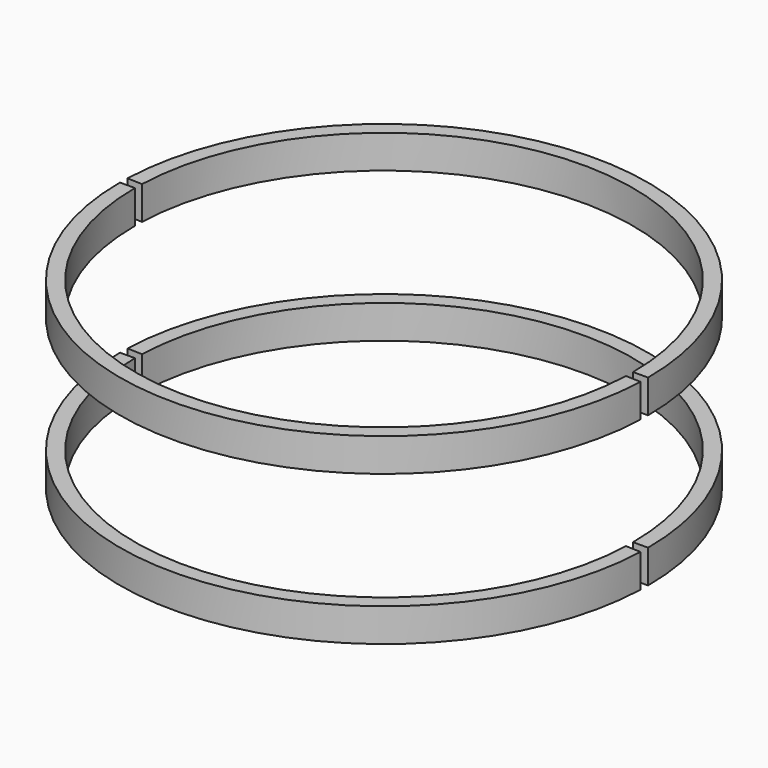
from build123d import *

# Parameters (mm, degrees)
CYLINDER081_R          = 22.45
CYLINDER081_DEPTH      = 17
CYLINDER080_W          = 23.8
CYLINDER080_H          = 3
CYLINDER080_ANGLE      = 178
CUT037_PLACEMENT_ANGLE = 180
CYLINDER079_R          = 22.45
CYLINDER079_DEPTH      = 17
CYLINDER078_W          = 23.8
CYLINDER078_H          = 3
CYLINDER078_ANGLE      = 178
CUT036_PLACEMENT_ANGLE = 180


with BuildPart() as cylinder081:
    # Cylinder081 → Cylinder081 (new body)
    with BuildSketch(Plane.XY):
        Circle(CYLINDER081_R)
    extrude(amount=CYLINDER081_DEPTH)


with BuildPart() as cylinder080:
    # Cylinder080 → Cylinder080 (revolve)
    with BuildSketch(Plane(origin=(0, 0, 1.8), x_dir=(1, 0, 0), z_dir=(0, -1, 0))):
        with Locations((11.9, 1.5)):
            Rectangle(CYLINDER080_W, CYLINDER080_H)
    revolve(axis=Axis((0, 0, 1.8), (0, 0, 1)), revolution_arc=CYLINDER080_ANGLE)


with BuildPart() as cut037:
    # Cut037 base: copy of Cylinder080
    add(cylinder080.part)

    # Cut037: cut Cylinder081
    add(cylinder081.part, mode=Mode.SUBTRACT)


with BuildPart() as cut037_1:
    # Cut037 placement: moved
    add(cut037.part.rotate(Axis((0, 0, 0), (0, 0, 1)), CUT037_PLACEMENT_ANGLE))


with BuildPart() as cylinder079:
    # Cylinder079 → Cylinder079 (new body)
    with BuildSketch(Plane.XY):
        Circle(CYLINDER079_R)
    extrude(amount=CYLINDER079_DEPTH)


with BuildPart() as cylinder078:
    # Cylinder078 → Cylinder078 (revolve)
    with BuildSketch(Plane(origin=(0, 0, 1.8), x_dir=(1, 0, 0), z_dir=(0, -1, 0))):
        with Locations((11.9, 1.5)):
            Rectangle(CYLINDER078_W, CYLINDER078_H)
    revolve(axis=Axis((0, 0, 1.8), (0, 0, 1)), revolution_arc=CYLINDER078_ANGLE)


with BuildPart() as fusion033:
    # Cut038 base: copy of Cylinder078
    add(cylinder078.part)

    # Cut038: cut Cylinder079
    add(cylinder079.part, mode=Mode.SUBTRACT)

    # Fusion033: union Cut037
    add(cut037_1.part)


with BuildPart() as cut036:
    # Cut036 base: copy of Cylinder080
    add(cylinder080.part)

    # Cut036: cut Cylinder081
    add(cylinder081.part, mode=Mode.SUBTRACT)


with BuildPart() as cut036_1:
    # Cut036 placement: moved
    add(cut036.part.rotate(Axis((0, 0, 0), (0, 0, 1)), CUT036_PLACEMENT_ANGLE))


with BuildPart() as obj1:
    # Cut035 base: copy of Cylinder078
    add(cylinder078.part)

    # Cut035: cut Cylinder079
    add(cylinder079.part, mode=Mode.SUBTRACT)

    # Fusion032: union Cut036
    add(cut036_1.part)


with BuildPart() as obj1_1:
    # Fusion032 placement: moved
    add(obj1.part.moved(Location((0, 0, 13.5))))

    # Fusion034: union Fusion033
    add(fusion033.part)


with BuildPart() as obj1_2:
    # Fusion034 placement: moved
    add(obj1_1.part.moved(Location((0, 0, -44))))


solid = obj1_2.part
